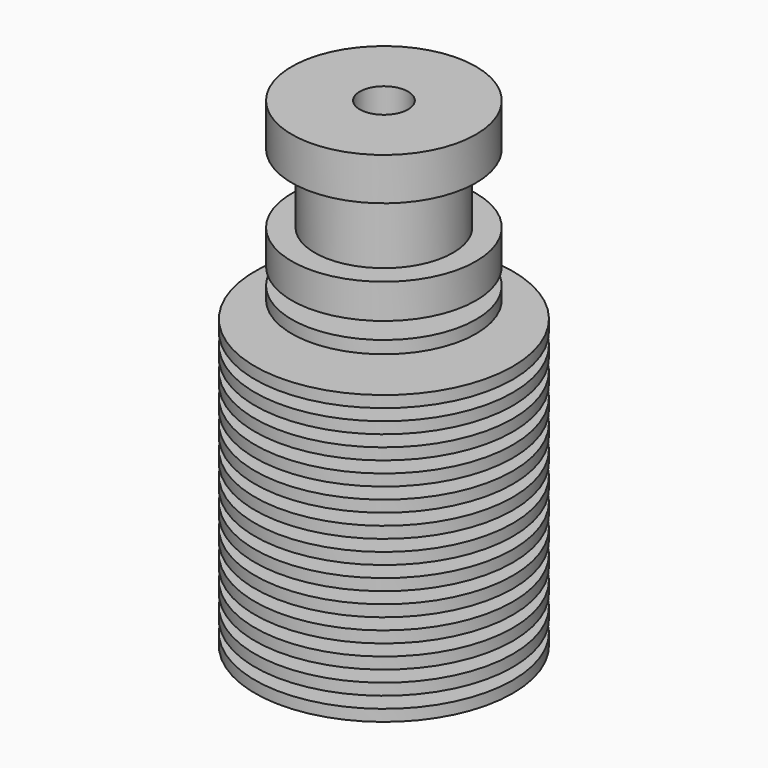
from build123d import *

# Parameters (mm, degrees)
F3_D = 4.2


with BuildPart() as f1:
    # F0 (on Front) → F1 (revolve)
    with BuildSketch(Plane.XZ):
        Polygon((8, 0), (0, 0), (0, -41.7), (11.2, -41.7), (11.2, -16.7), (4.193673376, -16.7), (4.193673376, -15.2441602767), (8, -15.2441602767), (8, -14.1522795528), (4.193673376, -14.1522795528), (4.193673376, -12.7), (8, -12.7), (8, -9.7), (6, -9.7), (6, -3.7), (8, -3.7), align=None)
    revolve(axis=Axis((0, 0, -23.3692955226), (0, 0, -1)))

    # F3 (through all)
    with Locations(Plane(origin=(0, 0, -41.7), x_dir=(1, 0, 0), z_dir=(0, 0, -1))):
        with Locations((0, 0)):
            Hole(F3_D / 2)

    # F4 (on Front) → F5 (revolve, cut)
    with BuildSketch(Plane.XZ):
        Polygon((11.2, -18.7), (11.2, -17.7), (3.5, -17.7), (3.6304347826, -18.7), align=None)
        Polygon((11.2, -39.7), (6.3695652174, -39.7), (6.5, -40.7), (11.2, -40.7), align=None)
        Polygon((11.2, -37.7), (6.1086956522, -37.7), (6.2391304348, -38.7), (11.2, -38.7), align=None)
        Polygon((11.2, -35.7), (5.847826087, -35.7), (5.9782608696, -36.7), (11.2, -36.7), align=None)
        Polygon((11.2, -33.7), (5.5869565217, -33.7), (5.7173913043, -34.7), (11.2, -34.7), align=None)
        Polygon((11.2, -31.7), (5.3260869565, -31.7), (5.4565217391, -32.7), (11.2, -32.7), align=None)
        Polygon((11.2, -29.7), (5.0652173913, -29.7), (5.1956521739, -30.7), (11.2, -30.7), align=None)
        Polygon((11.2, -27.7), (4.8043478261, -27.7), (4.9347826087, -28.7), (11.2, -28.7), align=None)
        Polygon((11.2, -25.7), (4.5434782609, -25.7), (4.6739130435, -26.7), (11.2, -26.7), align=None)
        Polygon((11.2, -23.7), (4.2826086957, -23.7), (4.4130434783, -24.7), (11.2, -24.7), align=None)
        Polygon((11.2, -21.7), (4.0217391304, -21.7), (4.152173913, -22.7), (11.2, -22.7), align=None)
        Polygon((11.2, -19.7), (3.7608695652, -19.7), (3.8913043478, -20.7), (11.2, -20.7), align=None)
    revolve(axis=Axis((0, 0, -17.9993046731), (0, 0, -1)), mode=Mode.SUBTRACT)


solid = f1.part
